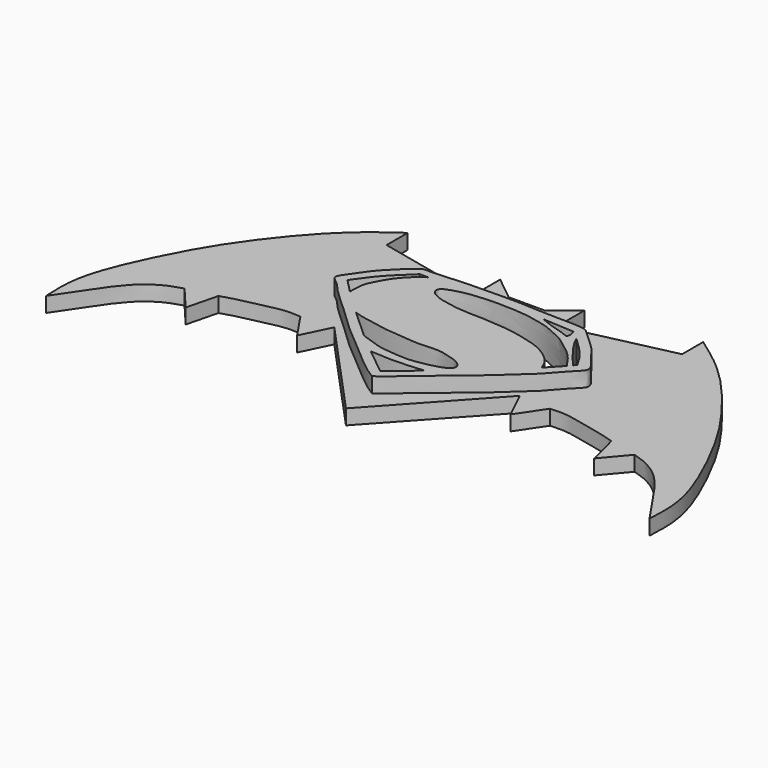
from build123d import *

# Parameters (mm, degrees)
F1_DEPTH = 7.1374
F2_DEPTH = 3.556


with BuildPart() as f1:
    # F0 (on Top) → F1 (new body)
    with BuildSketch(Plane.XY):
        with BuildLine():
            add(Edge.make_bspline(
                [(-19.5095837116, 17.750132829), (-18.5764965966, 17.7563244168), (-16.5913074056, 17.7694973275), (-12.7987040255, 18.1260969536), (-10.2427380873, 18.2242756955), (-6.4947569706, 18.4217557716), (-2.9396242918, 18.3271077498), (1.3161403141, 18.5325250144), (5.846850049, 18.2057147503), (11.8438965539, 18.015196782), (18.8615107913, 18.0311999967), (19.5219533199, 17.3121916236), (19.704317674, 17.1136558056)],
                knots=[0, 0, 0, 0, 0.088549754, 0.1883940006, 0.2721447417, 0.3706621273, 0.469143676, 0.5746760878, 0.683605617, 0.8156261821, 0.9490898742, 1, 1, 1, 1], degree=3))
            add(Edge.make_bspline(
                [(0, -21.5800683945), (-0.3319907115, -21.3889658164), (-1.1946565288, -20.8923927014), (-4.0630738776, -18.8589188134), (-7.2175668974, -15.8937927891), (-13.3098833623, -11.0321718092), (-17.3409245354, -7.3052803614), (-20.4295617413, -4.2726588061), (-23.4480572764, -1.5618833972), (-26.6496266133, 1.3461765476), (-28.3398688396, 3.6329043291), (-30.8788410113, 5.0560047788), (-28.4107816367, 7.9854169873), (-26.4861625524, 11.4795888482), (-21.1223594469, 16.604521381), (-19.9161718462, 17.4613189465), (-19.5095837116, 17.750132829)],
                knots=[0, 0, 0, 0, 0.0415191894, 0.1078861071, 0.1853875086, 0.2869787673, 0.373296012, 0.4478025234, 0.5214848259, 0.5968328798, 0.6593857253, 0.7126689374, 0.7746164892, 0.8522262076, 0.9501876237, 1, 1, 1, 1], degree=3))
            add(Edge.make_bspline(
                [(19.704317674, 17.1136558056), (20.4660764924, 16.40732859), (22.1023067283, 14.8901634207), (25.4707250683, 11.9054874951), (26.9231641299, 9.1399257151), (30.6149308579, 5.641689151), (27.5673209338, 3.210433105), (24.3913064484, -0.8597774947), (20.589660928, -4.21014052), (15.6986794339, -8.7354987119), (11.5981846852, -11.9044730513), (7.9107016082, -15.273535089), (4.8758837066, -17.4439363568), (2.2180895591, -20.1630638064), (0.6931811647, -21.1372364599), (0, -21.5800683945)],
                knots=[0, 0, 0, 0, 0.0681244273, 0.1463287922, 0.2158358485, 0.2916692257, 0.356262669, 0.4423588831, 0.5280034165, 0.6244272982, 0.7110380194, 0.7939908084, 0.8671133434, 0.9395934026, 1, 1, 1, 1], degree=3))
        make_face()
        with BuildLine():
            Line((0, -19.083738327), (-6.4387861639, -13.9518929645))
            add(Edge.make_bspline(
                [(-6.4387861639, -13.9518929645), (-6.1993659016, -13.9673186417), (-5.6421838004, -14.0032174881), (-4.2811490717, -14.0937063824), (-2.1762200386, -14.2053752649), (0.0594619608, -14.1818923498), (2.3691048655, -14.0994803383), (5.5369254985, -13.8201330822), (6.0495213503, -13.7918771204), (6.2066861428, -13.7832136825)],
                knots=[0, 0, 0, 0, 0.0959642163, 0.2233292335, 0.3838923159, 0.5468704707, 0.7205857063, 0.9143299944, 1, 1, 1, 1], degree=3))
            Line((6.2066861428, -13.7832136825), (0, -19.083738327))
        make_face(mode=Mode.SUBTRACT)
        with BuildLine():
            Line((-11.4640093252, -9.6921403307), (-18.2115975767, -3.51992785))
            add(Edge.make_bspline(
                [(-11.4640093252, -9.6921403307), (-11.1925595515, -9.8285623281), (-10.5262751021, -10.163415639), (-8.5022286167, -10.7540533189), (-6.0773711883, -11.6504044762), (-3.9052776575, -11.8927662396), (-0.2793776442, -12.1984498059), (1.8428122139, -12.1528920689), (5.0167442566, -11.6344167356), (8.1292689781, -10.7865623805), (9.8254254509, -9.8813245338), (9.8989069755, -8.5842157481), (9.1635058152, -7.7569593745), (7.8371665028, -6.9350394151), (5.8327304198, -6.4638838348), (4.2807621724, -5.931599683), (2.1067005646, -5.8212474651), (-0.003827204, -6.0393083847), (-2.4786113395, -6.0887757908), (-5.309917662, -5.6031236679), (-9.2150709767, -5.5379207737), (-12.1547418159, -4.8701897095), (-14.3487475828, -4.484430802), (-16.8070690828, -4.0355286744), (-17.785227272, -3.6764479075), (-18.2115975767, -3.51992785)],
                knots=[0, 0, 0, 0, 0.0293297987, 0.0719911773, 0.1191083424, 0.1633727176, 0.2186624769, 0.2621485317, 0.3145140775, 0.3683061575, 0.4069954722, 0.4370838071, 0.4668753002, 0.5034877254, 0.5455047079, 0.583408482, 0.6261202043, 0.6691976568, 0.7148179234, 0.7649204909, 0.8232397475, 0.8741483333, 0.9182916333, 0.9643840622, 1, 1, 1, 1], degree=3))
        make_face(mode=Mode.SUBTRACT)
        with BuildLine():
            Line((-18.6061039567, 15.7994572073), (-16.5688730776, 15.7994572073))
            add(Edge.make_bspline(
                [(-16.5688730776, 15.7994572073), (-16.8816761775, 15.6268844843), (-17.6507158673, 15.2026071246), (-19.5698724625, 13.4530156399), (-20.8642747146, 11.9839312137), (-22.1846082354, 10.1283207834), (-23.1955549411, 8.1357541164), (-24.3243720211, 5.9975006156), (-24.3317234691, 3.6245676167), (-24.3358183652, 2.3027989082)],
                knots=[0, 0, 0, 0, 0.1037814483, 0.2551510929, 0.390540135, 0.5317956505, 0.6729482527, 0.8178259707, 1, 1, 1, 1], degree=3))
            Line((-24.3358183652, 2.3027989082), (-27.5614354759, 5.613300018))
            add(Edge.make_bspline(
                [(-18.6061039567, 15.7994572073), (-18.8480500596, 15.5694385267), (-19.4412791552, 15.0054543492), (-21.1486136054, 13.4078939803), (-22.7448424038, 11.7912604684), (-24.1659861022, 10.3302251487), (-26.2192004031, 7.5135805738), (-27.1438340233, 6.2045227752), (-27.5614354759, 5.613300018)],
                knots=[0, 0, 0, 0, 0.1181070001, 0.2895872593, 0.4588269477, 0.6201606114, 0.8284493696, 1, 1, 1, 1], degree=3))
        make_face(mode=Mode.SUBTRACT)
        with BuildLine():
            add(Edge.make_bspline(
                [(25.5763512105, 4.085376393), (25.3186117542, 4.4467346235), (24.7455779446, 5.2501447273), (23.5800084636, 7.0042181418), (21.9064864262, 8.6460441764), (19.9773363571, 10.0126293664), (17.7387365257, 11.8890244394), (14.9156926035, 13.0721572234), (12.9348526983, 14.083510194), (8.8840783919, 15.0214431267), (5.387097953, 15.5984301581), (0.5180509573, 15.6638074044), (-2.0183458944, 15.7467776041), (-7.5837591411, 15.2644309862), (-10.7514336718, 14.2160924736), (-12.2408771691, 13.4615689342), (-12.3371315684, 11.8576332104), (-9.9436794222, 10.5195219763), (-7.1518033629, 9.9142792079), (-3.4223539456, 9.2504854024), (1.0941950879, 9.3355661475), (4.256295495, 9.0286435447), (8.1118177079, 8.8178212962), (12.4391418659, 7.866493923), (16.3001767562, 6.7948016187), (19.0513926717, 5.1591107001), (21.3478997584, 3.2063806384), (22.0208015061, 1.4894074512), (22.3507359624, 0.6475481205)],
                knots=[0, 0, 0, 0, 0.0261676702, 0.0581787514, 0.0920006719, 0.1259607075, 0.1639011804, 0.2020622058, 0.2353139567, 0.2794356763, 0.3226269021, 0.3701897439, 0.4066230356, 0.4585000072, 0.4995684305, 0.5260601319, 0.5501584831, 0.5849164575, 0.622849035, 0.6660402642, 0.7129376131, 0.7524215564, 0.7954719532, 0.8423818089, 0.8865958886, 0.9259816305, 0.9637076132, 1, 1, 1, 1], degree=3))
            Line((25.5763512105, 4.085376393), (22.3507359624, 0.6475481205))
        make_face(mode=Mode.SUBTRACT)
        with BuildLine():
            add(Edge.make_bspline(
                [(20.1012920588, 13.7622253969), (20.2452048268, 13.4425032395), (20.5937728481, 12.6681110761), (21.8163123463, 10.5807281257), (23.0209503907, 9.2077312684), (24.3314473915, 7.2320467017), (25.6129651562, 5.7622151271), (26.2978710234, 4.9766651355)],
                knots=[0, 0, 0, 0, 0.1494031829, 0.361866237, 0.5504956727, 0.759762869, 1, 1, 1, 1], degree=3))
            add(Edge.make_bspline(
                [(20.1012920588, 13.7622253969), (20.4750730429, 13.3760628597), (21.2843709261, 12.5399568584), (23.0054821127, 11.0445287637), (24.383345844, 9.3014615168), (25.6774875683, 7.7238205109), (26.4476910831, 6.3370082248), (26.8496219069, 5.613300018)],
                knots=[0, 0, 0, 0, 0.1781124497, 0.3856430226, 0.5907250332, 0.7864197951, 1, 1, 1, 1], degree=3))
            Line((26.8496219069, 5.613300018), (26.2978710234, 4.9766651355))
        make_face(mode=Mode.SUBTRACT)
        with BuildLine():
            add(Edge.make_bspline(
                [(17.9791748524, 15.5872460455), (18.1335643678, 15.0886235141), (18.3974618909, 14.2363295572), (18.0569729416, 13.1625353099), (16.6570122906, 14.0339334557), (14.1077114542, 14.5340834733), (11.7591107639, 15.4872345416), (10.466885753, 16.0116683692)],
                knots=[0, 0, 0, 0, 0.1776907916, 0.3037263227, 0.4672843646, 0.706894207, 1, 1, 1, 1], degree=3))
            Line((10.466885753, 16.0116683692), (17.9791748524, 15.5872460455))
        make_face(mode=Mode.SUBTRACT)
    extrude(amount=F1_DEPTH)

    # F0 (on Top) → F2 (join)
    with BuildSketch(Plane.XY):
        with BuildLine():
            Line((-21.9426061958, -5.3016319871), (0, -29.2897354811))
            Line((0, -29.2897354811), (21.9426061958, -5.3016319871))
            Line((21.9426061958, -5.3016319871), (25.2695303128, -12.1511807173))
            Line((25.2695303128, -12.1511807173), (29.5361573841, -5.8439915397))
            add(Edge.make_bspline(
                [(29.5361573841, -5.8439915397), (30.8085593289, -5.7578560404), (33.5548119661, -5.6176687882), (39.226288166, -7.0898518959), (43.9203490864, -7.9866895348), (46.5012626113, -8.8855231766)],
                knots=[0, 0, 0, 0, 0.2767038179, 0.6116548947, 1, 1, 1, 1], degree=3))
            Line((46.5012626113, -8.8855231766), (48.3481176198, -16.2729360163))
            Line((48.3481176198, -16.2729360163), (53.263142705, -10.4568144307))
            add(Edge.make_bspline(
                [(53.263142705, -10.4568144307), (54.3915338128, -10.8062275975), (56.8484551687, -11.5670282327), (61.2348281764, -14.3464137244), (65.2363326588, -19.4586534824), (68.5115306821, -24.6608758261), (70.4754479584, -27.4406396667), (71.4018642902, -28.7519060075)],
                knots=[0, 0, 0, 0, 0.167262552, 0.3641919307, 0.5878831242, 0.8055967993, 1, 1, 1, 1], degree=3))
            add(Edge.make_bspline(
                [(71.4018642902, -28.7519060075), (71.5089216785, -26.4726334151), (71.7362620233, -21.6325133105), (69.6735176256, -13.1324512433), (63.2967501182, 0.4855632474), (56.6553617612, 11.4528973101), (45.4263510597, 25.239962007), (38.2706242276, 30.3448056276), (34.9680520594, 32.7008366585)],
                knots=[0, 0, 0, 0, 0.1259530501, 0.2674659854, 0.4518702183, 0.627819287, 0.8282279783, 1, 1, 1, 1], degree=3))
            Line((34.9680520594, 32.7008366585), (34.9680520594, 26.4461040497))
            Line((34.9680520594, 26.4461040497), (9.9491244182, 20.8168458194))
            Line((9.9491244182, 20.8168458194), (9.9491244182, 28.7916306406))
            Line((9.9491244182, 28.7916306406), (4.3198643252, 24.2569483817))
            Line((4.3198643252, 24.2569483817), (0, 24.2569483817))
            Line((0, 24.2569483817), (-4.3198643252, 24.2569483817))
            Line((-4.3198643252, 24.2569483817), (-9.9491244182, 28.7916306406))
            Line((-9.9491244182, 28.7916306406), (-9.9491244182, 20.8168458194))
            Line((-9.9491244182, 20.8168458194), (-34.9680520594, 26.4461040497))
            Line((-34.9680520594, 26.4461040497), (-34.9680520594, 32.7008366585))
            add(Edge.make_bspline(
                [(-71.4018642902, -28.7519060075), (-71.5089216785, -26.4726334151), (-71.7362620233, -21.6325133105), (-69.6735176256, -13.1324512433), (-63.2967501182, 0.4855632474), (-56.6553617612, 11.4528973101), (-45.4263510597, 25.239962007), (-38.2706242276, 30.3448056276), (-34.9680520594, 32.7008366585)],
                knots=[0, 0, 0, 0, 0.1259530501, 0.2674659854, 0.4518702183, 0.627819287, 0.8282279783, 1, 1, 1, 1], degree=3))
            add(Edge.make_bspline(
                [(-53.263142705, -10.4568144307), (-54.3915338128, -10.8062275975), (-56.8484551687, -11.5670282327), (-61.2348281764, -14.3464137244), (-65.2363326588, -19.4586534824), (-68.5115306821, -24.6608758261), (-70.4754479584, -27.4406396667), (-71.4018642902, -28.7519060075)],
                knots=[0, 0, 0, 0, 0.167262552, 0.3641919307, 0.5878831242, 0.8055967993, 1, 1, 1, 1], degree=3))
            Line((-53.263142705, -10.4568144307), (-48.3481176198, -16.2729360163))
            Line((-48.3481176198, -16.2729360163), (-46.5012626113, -8.8855231766))
            add(Edge.make_bspline(
                [(-29.5361573841, -5.8439915397), (-30.8085593289, -5.7578560404), (-33.5548119661, -5.6176687882), (-39.226288166, -7.0898518959), (-43.9203490864, -7.9866895348), (-46.5012626113, -8.8855231766)],
                knots=[0, 0, 0, 0, 0.2767038179, 0.6116548947, 1, 1, 1, 1], degree=3))
            Line((-29.5361573841, -5.8439915397), (-25.2695303128, -12.1511807173))
            Line((-25.2695303128, -12.1511807173), (-21.9426061958, -5.3016319871))
        make_face()
        with BuildLine():
            add(Edge.make_bspline(
                [(0, -21.5800683945), (-0.3319907115, -21.3889658164), (-1.1946565288, -20.8923927014), (-4.0630738776, -18.8589188134), (-7.2175668974, -15.8937927891), (-13.3098833623, -11.0321718092), (-17.3409245354, -7.3052803614), (-20.4295617413, -4.2726588061), (-23.4480572764, -1.5618833972), (-26.6496266133, 1.3461765476), (-28.3398688396, 3.6329043291), (-30.8788410113, 5.0560047788), (-28.4107816367, 7.9854169873), (-26.4861625524, 11.4795888482), (-21.1223594469, 16.604521381), (-19.9161718462, 17.4613189465), (-19.5095837116, 17.750132829)],
                knots=[0, 0, 0, 0, 0.0415191894, 0.1078861071, 0.1853875086, 0.2869787673, 0.373296012, 0.4478025234, 0.5214848259, 0.5968328798, 0.6593857253, 0.7126689374, 0.7746164892, 0.8522262076, 0.9501876237, 1, 1, 1, 1], degree=3))
            add(Edge.make_bspline(
                [(-19.5095837116, 17.750132829), (-18.5764965966, 17.7563244168), (-16.5913074056, 17.7694973275), (-12.7987040255, 18.1260969536), (-10.2427380873, 18.2242756955), (-6.4947569706, 18.4217557716), (-2.9396242918, 18.3271077498), (1.3161403141, 18.5325250144), (5.846850049, 18.2057147503), (11.8438965539, 18.015196782), (18.8615107913, 18.0311999967), (19.5219533199, 17.3121916236), (19.704317674, 17.1136558056)],
                knots=[0, 0, 0, 0, 0.088549754, 0.1883940006, 0.2721447417, 0.3706621273, 0.469143676, 0.5746760878, 0.683605617, 0.8156261821, 0.9490898742, 1, 1, 1, 1], degree=3))
            add(Edge.make_bspline(
                [(19.704317674, 17.1136558056), (20.4660764924, 16.40732859), (22.1023067283, 14.8901634207), (25.4707250683, 11.9054874951), (26.9231641299, 9.1399257151), (30.6149308579, 5.641689151), (27.5673209338, 3.210433105), (24.3913064484, -0.8597774947), (20.589660928, -4.21014052), (15.6986794339, -8.7354987119), (11.5981846852, -11.9044730513), (7.9107016082, -15.273535089), (4.8758837066, -17.4439363568), (2.2180895591, -20.1630638064), (0.6931811647, -21.1372364599), (0, -21.5800683945)],
                knots=[0, 0, 0, 0, 0.0681244273, 0.1463287922, 0.2158358485, 0.2916692257, 0.356262669, 0.4423588831, 0.5280034165, 0.6244272982, 0.7110380194, 0.7939908084, 0.8671133434, 0.9395934026, 1, 1, 1, 1], degree=3))
        make_face(mode=Mode.SUBTRACT)
    extrude(amount=F2_DEPTH)


solid = f1.part
